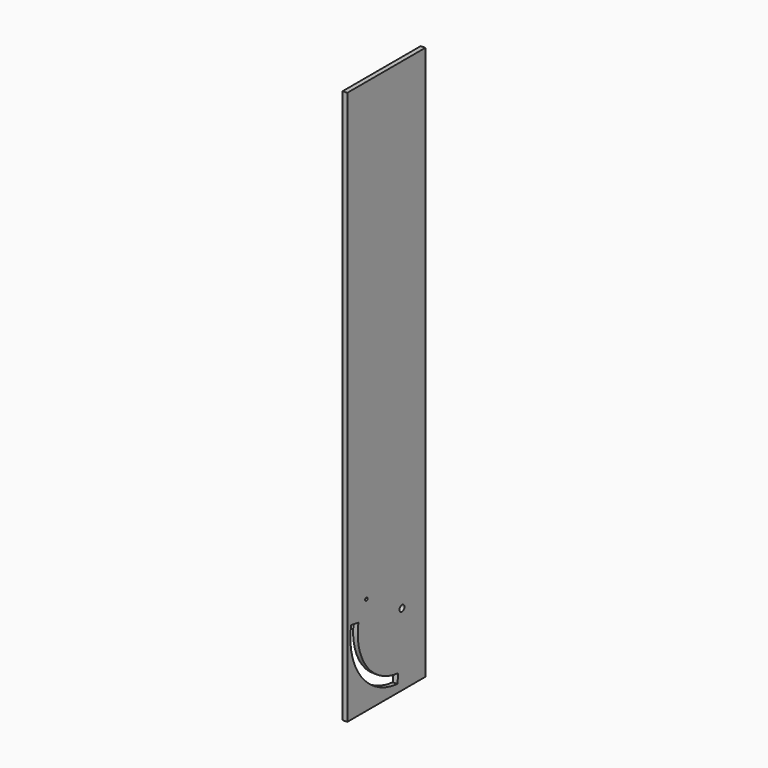
from build123d import *

# Parameters (mm, degrees)
F0_W     = 403.225
F0_H     = 2289.175
F0_R     = 6.35
F1_DEPTH = 19.05
F2_D     = 25.4


with BuildPart() as f1:
    # F0 (on Right) → F1 (new body)
    with BuildSketch(Plane.YZ):
        with Locations((-201.6125, 1144.5875)):
            Rectangle(F0_W, F0_H)
        with Locations((-304.8, 406.4)):
            Circle(F0_R, mode=Mode.SUBTRACT)
        with BuildLine():
            Line((-383.2982277284, 344.7619689838), (-345.7770523386, 338.1459734147))
            ThreePointArc((-345.7770523386, 338.1459734147), (-302.0105735906, 159.2871373286), (-140.5738027921, 70.7198920162))
            Line((-140.5738027921, 70.7198920162), (-143.8944365908, 32.7648740189))
            ThreePointArc((-143.8944365908, 32.7648740189), (-332.2373358557, 136.0933268834), (-383.2982277284, 344.7619689838))
        make_face(mode=Mode.SUBTRACT)
    extrude(amount=F1_DEPTH)

    # F2 (through all)
    with Locations(Plane(origin=(0, 0, 0), x_dir=(0, 1, 0), z_dir=(-1, 0, 0))):
        with Locations((-120.65, -298.45)):
            Hole(F2_D / 2)


solid = f1.part
